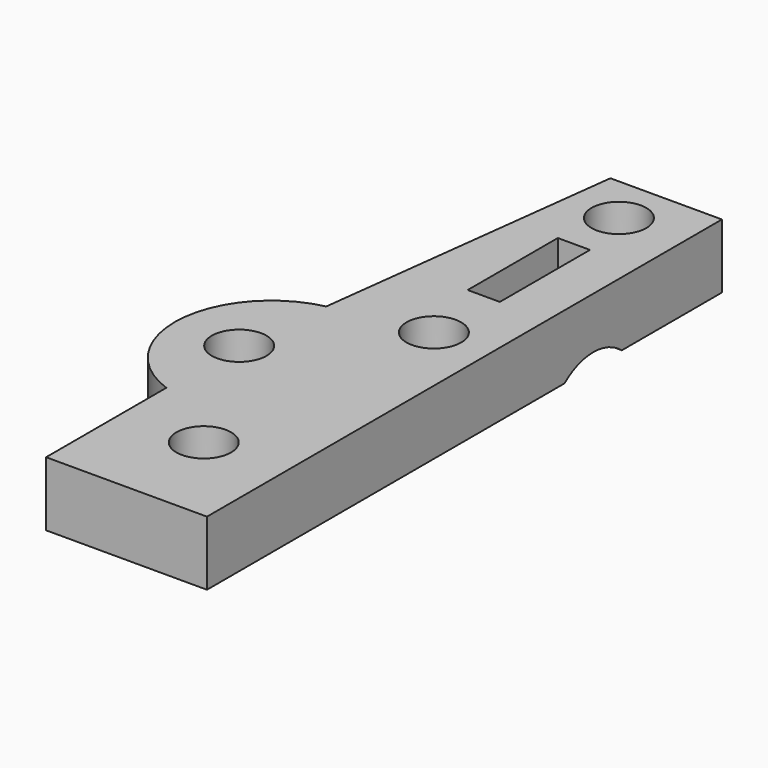
from build123d import *

# Parameters (mm, degrees)
CYLINDER082_R           = 1.7
CYLINDER082_DEPTH       = 50
CYLINDER081_R           = 1.7
CYLINDER081_DEPTH       = 50
CYLINDER080_R           = 1.7
CYLINDER080_DEPTH       = 50
CYLINDER079_R           = 1.7
CYLINDER079_DEPTH       = 50
CYLINDER044_R           = 3.5
CYLINDER044_DEPTH       = 8
CYLINDER044_PITCH_ANGLE = 90
BOX027_W                = 2
BOX027_H                = 7
BOX027_DEPTH            = 10
BOX019_W                = 66
BOX019_H                = 50
BOX019_DEPTH            = 25
BOX019_PLACEMENT_ANGLE  = -7
BOX010_W                = 10
BOX010_H                = 40
BOX010_DEPTH            = 4
CYLINDER024_R           = 6
CYLINDER024_DEPTH       = 4


with BuildPart() as m3_studding019:
    # Cylinder082 → Cylinder082 (new body)
    with BuildSketch(Plane(origin=(41, -9, 27), x_dir=(1, 0, 0), z_dir=(0, 0, 1))):
        Circle(CYLINDER082_R)
    extrude(amount=CYLINDER082_DEPTH)


with BuildPart() as m3_studding018:
    # Cylinder081 → Cylinder081 (new body)
    with BuildSketch(Plane(origin=(42, 22, 27), x_dir=(1, 0, 0), z_dir=(0, 0, 1))):
        Circle(CYLINDER081_R)
    extrude(amount=CYLINDER081_DEPTH)


with BuildPart() as m3_studding017:
    # Cylinder080 → Cylinder080 (new body)
    with BuildSketch(Plane(origin=(42.5, 7, 27), x_dir=(1, 0, 0), z_dir=(0, 0, 1))):
        Circle(CYLINDER080_R)
    extrude(amount=CYLINDER080_DEPTH)


with BuildPart() as m3_clearance003:
    # Cylinder079 → Cylinder079 (new body)
    with BuildSketch(Plane(origin=(36, 0, 27), x_dir=(1, 0, 0), z_dir=(0, 0, 1))):
        Circle(CYLINDER079_R)
    extrude(amount=CYLINDER079_DEPTH)

    # Fusion048: union m3-studding019, m3-studding018, m3-studding017
    add(m3_studding019.part)
    add(m3_studding018.part)
    add(m3_studding017.part)


with BuildPart() as cylinder044:
    # Cylinder044 → Cylinder044 (new body)
    with BuildSketch(Plane.XY):
        Circle(CYLINDER044_R)
    extrude(amount=CYLINDER044_DEPTH)


with BuildPart() as cylinder044_1:
    # Cylinder044 pitch: moved
    add(cylinder044.part.rotate(Axis((0, 0, 0), (0, 1, 0)), CYLINDER044_PITCH_ANGLE))


with BuildPart() as cylinder044_2:
    # Cylinder044 placement: moved
    add(cylinder044_1.part.moved(Location((41, 15, 58))))


with BuildPart() as obj1:
    # Box027 → Box027 (new body)
    with BuildSketch(Plane(origin=(41, 11.5, 58), x_dir=(1, 0, 0), z_dir=(0, 0, 1))):
        with Locations((1, 3.5)):
            Rectangle(BOX027_W, BOX027_H)
    extrude(amount=BOX027_DEPTH)

    # Fusion026: union Cylinder044
    add(cylinder044_2.part)


with BuildPart() as cube019:
    # Box019 → Box019 (new body)
    with BuildSketch(Plane.XY):
        with Locations((33, 25)):
            Rectangle(BOX019_W, BOX019_H)
    extrude(amount=BOX019_DEPTH)


with BuildPart() as cube019_1:
    # Box019 placement: moved
    add(cube019.part.moved(Location((-31.823564, -10.815, 45))).rotate(Axis((-31.823564, -10.815, 45), (0, 0, 1)), BOX019_PLACEMENT_ANGLE))


with BuildPart() as cut008:
    # Box010 → Box010 (new body)
    with BuildSketch(Plane(origin=(36, -15, 60.7), x_dir=(1, 0, 0), z_dir=(0, 0, 1))):
        with Locations((5, 20)):
            Rectangle(BOX010_W, BOX010_H)
    extrude(amount=BOX010_DEPTH)

    # Cut008: cut Cube019
    add(cube019_1.part, mode=Mode.SUBTRACT)


with BuildPart() as clamp_plate:
    # Cylinder024 → Cylinder024 (new body)
    with BuildSketch(Plane(origin=(38, 0, 60.7), x_dir=(1, 0, 0), z_dir=(0, 0, 1))):
        Circle(CYLINDER024_R)
    extrude(amount=CYLINDER024_DEPTH)

    # Fusion013: union Cut008
    add(cut008.part)

    # Cut016: cut obj1
    add(obj1.part, mode=Mode.SUBTRACT)

    # Cut038: cut M3-clearance003
    add(m3_clearance003.part, mode=Mode.SUBTRACT)


with BuildPart() as clamp_plate_1:
    # Cut038 placement: moved
    add(clamp_plate.part.moved(Location((-0.5, 0, 0))))


solid = clamp_plate_1.part
